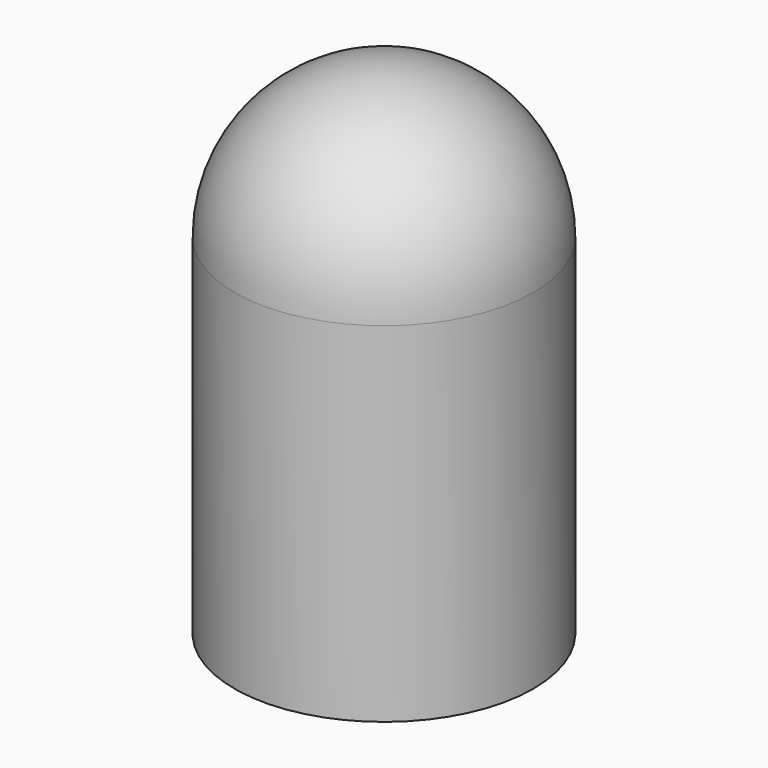
from build123d import *

# Parameters (mm, degrees)
F0_R     = 6
F1_DEPTH = 20
F2_R     = 6
F3_R     = 3.25
F4_DEPTH = 18
F5_R     = 3


with BuildPart() as f1:
    # F0 (on Top) → F1 (new body)
    with BuildSketch(Plane.XY):
        Circle(F0_R)
    extrude(amount=F1_DEPTH)

    # F2
    f2_edges = [f1.edges().sort_by_distance(p)[0] for p in [
        (-6, 0, 20),
    ]]
    fillet(f2_edges, radius=F2_R)

    # F3 (on face) → F4 (cut)
    with BuildSketch(Plane(origin=(0, 0, 0), x_dir=(1, 0, 0), z_dir=(0, 0, -1))):
        Circle(F3_R)
    extrude(amount=-F4_DEPTH, mode=Mode.SUBTRACT)

    # F5
    f5_edges = [f1.edges().sort_by_distance(p)[0] for p in [
        (-3.25, 0, 18),
    ]]
    fillet(f5_edges, radius=F5_R)


solid = f1.part
